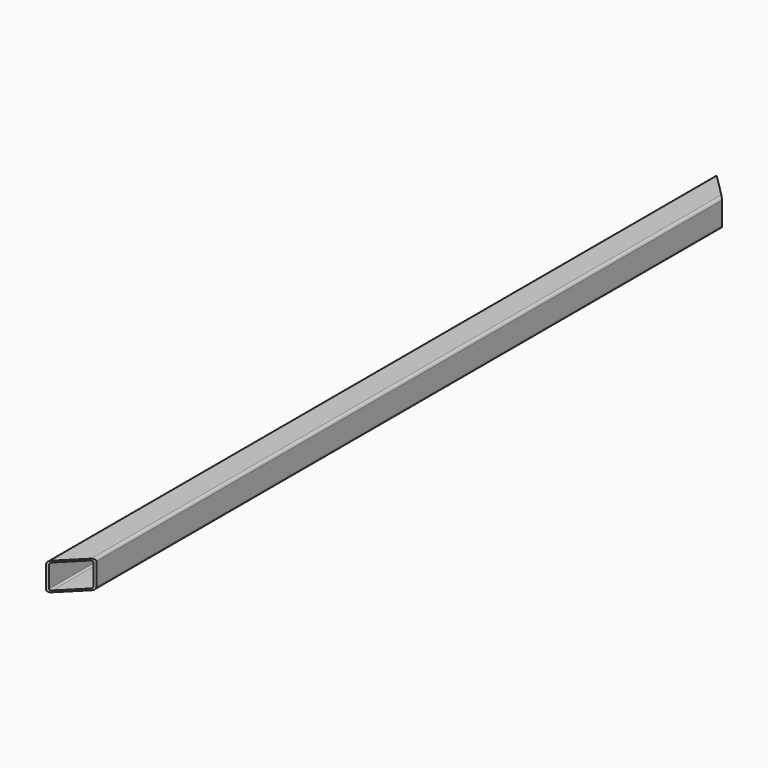
from build123d import *

# Parameters (mm, degrees)
F0_W     = 50
F0_H     = 50
F0_W_2   = 44
F0_H_2   = 44
F1_DEPTH = 1500
F2_DEPTH = 100
F3_R     = 5
F4_R     = 3
F6_DEPTH = 50


with BuildPart() as f1:
    # F0 (on Front) → F1 (new body)
    with BuildSketch(Plane.XZ):
        with Locations((25, 25)):
            Rectangle(F0_W, F0_H)
        with Locations((25, 25)):
            Rectangle(F0_W_2, F0_H_2, mode=Mode.SUBTRACT)
    extrude(amount=F1_DEPTH)

    # F0 (on Front) → F2 (join)
    with BuildSketch(Plane.XZ):
        with Locations((25, 25)):
            Rectangle(F0_W, F0_H)
        with Locations((25, 25)):
            Rectangle(F0_W_2, F0_H_2, mode=Mode.SUBTRACT)
    extrude(amount=F2_DEPTH)

    # F3
    f3_edges = [f1.edges().sort_by_distance(p)[0] for p in [
        (50, -750, 50),
        (50, -750, 0),
        (0, -750, 0),
        (0, -750, 50),
    ]]
    fillet(f3_edges, radius=F3_R)

    # F4
    f4_edges = [f1.edges().sort_by_distance(p)[0] for p in [
        (47, -750, 47),
        (3, -750, 3),
        (3, -750, 47),
        (47, -750, 3),
    ]]
    fillet(f4_edges, radius=F4_R)

    # F5 (on face) → F6 (cut)
    with BuildSketch(Plane.XY.offset(50)):
        Polygon((50, 0), (0, 0), (50, -50), align=None)
        Polygon((50, -1450), (0, -1500), (50, -1500), align=None)
    extrude(amount=-F6_DEPTH, mode=Mode.SUBTRACT)


solid = f1.part
